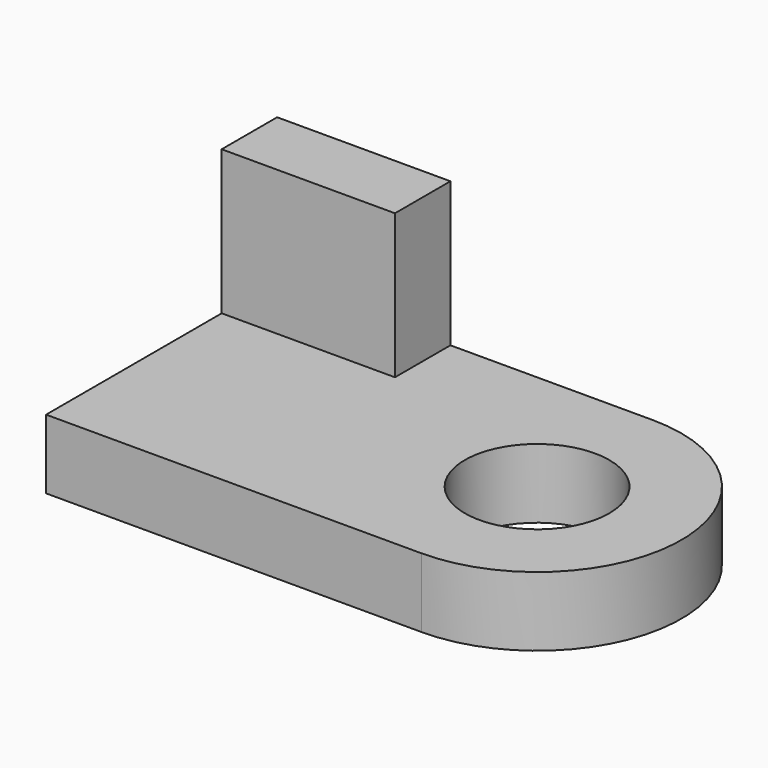
from build123d import *

# Parameters (mm, degrees)
F0_W     = 1651
F0_H     = 1270
F1_DEPTH = 304.8
F2_W     = 762
F2_H     = 304.8
F3_DEPTH = 635
F4_R     = 635
F5_DEPTH = 304.8
F6_R     = 317.5
F7_DEPTH = 355.6


with BuildPart() as f1:
    # F0 (on Top) → F1 (new body)
    with BuildSketch(Plane.XY):
        with Locations((770.703636, 587.522676)):
            Rectangle(F0_W, F0_H)
    extrude(amount=F1_DEPTH)

    # F2 (on face) → F3 (join)
    with BuildSketch(Plane.XY.offset(304.8)):
        with Locations((326.203636, 1070.122676)):
            Rectangle(F2_W, F2_H)
    extrude(amount=F3_DEPTH)

    # F4 (on face) → F5 (join)
    with BuildSketch(Plane.XY.offset(304.8)):
        with Locations((1596.203636, 587.522676)):
            Circle(F4_R)
    extrude(amount=-F5_DEPTH)

    # F6 (on face) → F7 (cut)
    with BuildSketch(Plane.XY.offset(304.8)):
        with Locations((1596.203636, 587.522676)):
            Circle(F6_R)
    extrude(amount=-F7_DEPTH, mode=Mode.SUBTRACT)


solid = f1.part
